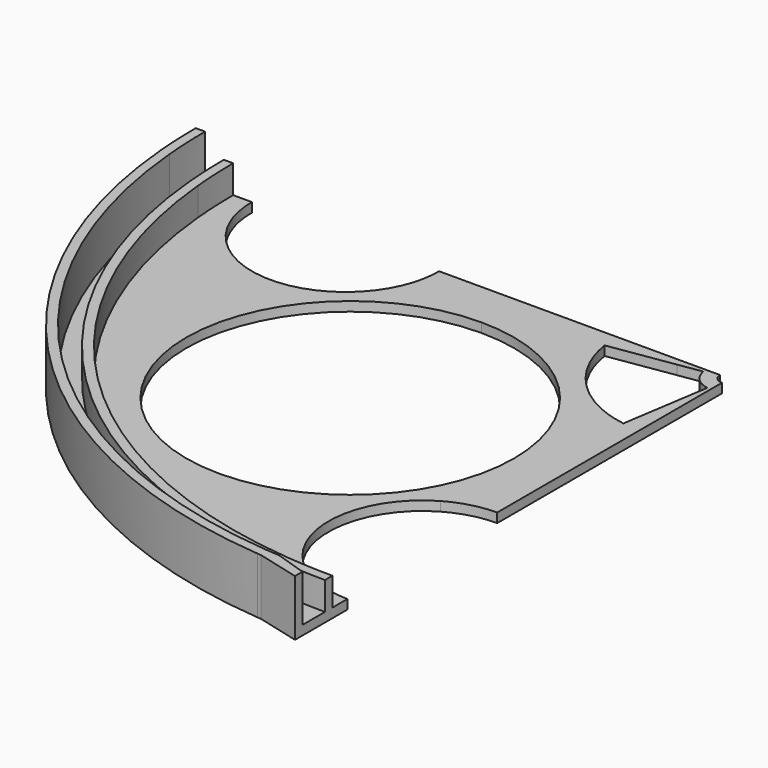
from build123d import *

# Parameters (mm, degrees)
F1_DEPTH = 2.54
F2_DEPTH = 10.16
F3_DEPTH = 2.54
F4_DEPTH = 15.24


with BuildPart() as f1:
    # F0 (on Top) → F1 (new body)
    with BuildSketch(Plane.XY):
        with BuildLine():
            ThreePointArc((-12.7, -134.0196045361), (-6.3570919986, -134.4698173618), (0, -134.62))
            Line((0, -134.62), (0, -129.54))
            ThreePointArc((0, -129.54), (-6.5740037456, -128.6745159877), (-12.7, -126.1370452561))
            Line((-12.7, -126.1370452561), (-12.7, -134.0196045361))
        make_face()
        with BuildLine():
            ThreePointArc((-134.0196045361, -12.7), (-95.1907148833, -95.1907148833), (-12.7, -134.0196045361))
            Line((-12.7, -134.0196045361), (-12.7, -126.1370452561))
            ThreePointArc((-12.7, -126.1370452561), (-25.4, -104.14), (-12.7, -82.1429547439))
            Line((-12.7, -82.1429547439), (-12.7, -57.15))
            ThreePointArc((-12.7, -57.15), (-88.5808964237, -88.5808964237), (-57.15, -12.7))
            Line((-57.15, -12.7), (-82.1429547439, -12.7))
            ThreePointArc((-82.1429547439, -12.7), (-104.14, -25.4), (-126.1370452561, -12.7))
            Line((-126.1370452561, -12.7), (-134.0196045361, -12.7))
        make_face()
        with BuildLine():
            ThreePointArc((-2.510175815, -0.3880945475), (-2.5325329781, -0.1946194105), (-2.54, 0))
            Line((-2.54, 0), (-6.35, 0))
            ThreePointArc((-6.35, 0), (-6.3313324452, -0.4865485263), (-6.2754395375, -0.9702363687))
            Line((-6.2754395375, -0.9702363687), (-2.510175815, -0.3880945475))
        make_face()
        with BuildLine():
            ThreePointArc((-134.62, 0), (-134.4698173618, -6.3570919986), (-134.0196045361, -12.7))
            Line((-134.0196045361, -12.7), (-126.1370452561, -12.7))
            ThreePointArc((-126.1370452561, -12.7), (-128.6745159877, -6.5740037456), (-129.54, 0))
            Line((-129.54, 0), (-134.62, 0))
        make_face()
        with BuildLine():
            ThreePointArc((-57.15, -12.7), (-25.7191035763, -25.7191035763), (-12.7, -57.15))
            Line((-12.7, -57.15), (-12.7, -27.7081287712))
            ThreePointArc((-12.7, -27.7081287712), (-21.5526146906, -21.5526146906), (-27.7081287712, -12.7))
            Line((-27.7081287712, -12.7), (-57.15, -12.7))
        make_face()
        with BuildLine():
            Line((-30.12210978, -4.6571345698), (-82.1429547439, -12.7))
            Line((-82.1429547439, -12.7), (-57.15, -12.7))
            Line((-57.15, -12.7), (-27.7081287712, -12.7))
            ThreePointArc((-27.7081287712, -12.7), (-29.1934246673, -8.7620977053), (-30.12210978, -4.6571345698))
        make_face()
        with BuildLine():
            Line((-12.7, -57.15), (-12.7, -82.1429547439))
            Line((-12.7, -82.1429547439), (-4.6571345698, -30.12210978))
            ThreePointArc((-4.6571345698, -30.12210978), (-8.7620977053, -29.1934246673), (-12.7, -27.7081287712))
            Line((-12.7, -27.7081287712), (-12.7, -57.15))
        make_face()
        with BuildLine():
            ThreePointArc((-12.7, -82.1429547439), (-6.5740037456, -79.6054840123), (0, -78.74))
            Line((0, -78.74), (0, -30.48))
            ThreePointArc((0, -30.48), (-2.3354329262, -30.3903957369), (-4.6571345698, -30.12210978))
            Line((-4.6571345698, -30.12210978), (-12.7, -82.1429547439))
        make_face()
        with BuildLine():
            ThreePointArc((-4.6571345698, -30.12210978), (-2.3354329262, -30.3903957369), (0, -30.48))
            Line((0, -30.48), (0, -12.7))
            Line((0, -12.7), (-1.9635281017, -12.7))
            Line((-1.9635281017, -12.7), (-4.6571345698, -30.12210978))
        make_face()
        with BuildLine():
            Line((-1.9635281017, -12.7), (0, -12.7))
            Line((0, -12.7), (0, -6.35))
            ThreePointArc((0, -6.35), (-0.4865485263, -6.3313324452), (-0.9702363687, -6.2754395375))
            Line((-0.9702363687, -6.2754395375), (-1.9635281017, -12.7))
        make_face()
        with BuildLine():
            ThreePointArc((-0.9702363687, -6.2754395375), (-0.4865485263, -6.3313324452), (0, -6.35))
            Line((0, -6.35), (0, -2.54))
            ThreePointArc((0, -2.54), (-0.1946194105, -2.5325329781), (-0.3880945475, -2.510175815))
            Line((-0.3880945475, -2.510175815), (-0.9702363687, -6.2754395375))
        make_face()
        with BuildLine():
            Line((-0.9702363687, -6.2754395375), (-0.3880945475, -2.510175815))
            ThreePointArc((-0.3880945475, -2.510175815), (-1.7960512242, -1.7960512242), (-2.510175815, -0.3880945475))
            Line((-2.510175815, -0.3880945475), (-6.2754395375, -0.9702363687))
            ThreePointArc((-6.2754395375, -0.9702363687), (-4.4901280605, -4.4901280605), (-0.9702363687, -6.2754395375))
        make_face()
        with BuildLine():
            ThreePointArc((-30.48, 0), (-30.3903957369, -2.3354329262), (-30.12210978, -4.6571345698))
            Line((-30.12210978, -4.6571345698), (-12.7, -1.9635281017))
            Line((-12.7, -1.9635281017), (-12.7, 0))
            Line((-12.7, 0), (-30.48, 0))
        make_face()
        with BuildLine():
            Line((-12.7, 0), (-12.7, -1.9635281017))
            Line((-12.7, -1.9635281017), (-6.2754395375, -0.9702363687))
            ThreePointArc((-6.2754395375, -0.9702363687), (-6.3313324452, -0.4865485263), (-6.35, 0))
            Line((-6.35, 0), (-12.7, 0))
        make_face()
        with BuildLine():
            ThreePointArc((-78.74, 0), (-79.6054840123, -6.5740037456), (-82.1429547439, -12.7))
            Line((-82.1429547439, -12.7), (-30.12210978, -4.6571345698))
            ThreePointArc((-30.12210978, -4.6571345698), (-30.3903957369, -2.3354329262), (-30.48, 0))
            Line((-30.48, 0), (-78.74, 0))
        make_face()
    extrude(amount=F1_DEPTH)

    # F0 (on Top) → F2 (join)
    with BuildSketch(Plane.XY):
        with BuildLine():
            Line((0, -137.16), (0, -134.62))
            ThreePointArc((0, -134.62), (-6.3570919986, -134.4698173618), (-12.7, -134.0196045361))
            Line((-12.7, -134.0196045361), (-12.7, -136.5707713971))
            ThreePointArc((-12.7, -136.5707713971), (-6.3568307817, -137.0126136617), (0, -137.16))
        make_face()
        with BuildLine():
            Line((-12.7, -136.5707713971), (-12.7, -134.0196045361))
            ThreePointArc((-12.7, -134.0196045361), (-95.1907148833, -95.1907148833), (-134.0196045361, -12.7))
            Line((-134.0196045361, -12.7), (-136.5707713971, -12.7))
            ThreePointArc((-136.5707713971, -12.7), (-96.9867661075, -96.9867661075), (-12.7, -136.5707713971))
        make_face()
        with BuildLine():
            Line((-136.5707713971, -12.7), (-134.0196045361, -12.7))
            ThreePointArc((-134.0196045361, -12.7), (-134.4698173618, -6.3570919986), (-134.62, 0))
            Line((-134.62, 0), (-137.16, 0))
            ThreePointArc((-137.16, 0), (-137.0126136617, -6.3568307817), (-136.5707713971, -12.7))
        make_face()
    extrude(amount=F2_DEPTH)

    # F0 (on Top) → F3 (join)
    with BuildSketch(Plane.XY):
        with BuildLine():
            Line((0, -142.24), (0, -137.16))
            ThreePointArc((0, -137.16), (-6.3568307817, -137.0126136617), (-12.7, -136.5707713971))
            Line((-12.7, -136.5707713971), (-12.7, -141.6719012366))
            ThreePointArc((-12.7, -141.6719012366), (-10.6556073906, -141.8403173683), (-8.6089986235, -141.979233491))
            ThreePointArc((-8.6089986235, -141.979233491), (-4.306473513, -142.1747934265), (0, -142.24))
        make_face()
        with BuildLine():
            Line((0, -144.78), (0, -142.24))
            ThreePointArc((0, -142.24), (-4.306473513, -142.1747934265), (-8.6089986235, -141.979233491))
            Line((-8.6089986235, -141.979233491), (0, -144.78))
        make_face()
        with BuildLine():
            Line((-12.7, -141.6719012366), (-12.7, -136.5707713971))
            ThreePointArc((-12.7, -136.5707713971), (-96.9867661075, -96.9867661075), (-136.5707713971, -12.7))
            Line((-136.5707713971, -12.7), (-141.6719012366, -12.7))
            ThreePointArc((-141.6719012366, -12.7), (-100.578868556, -100.578868556), (-12.7, -141.6719012366))
        make_face()
        with BuildLine():
            Line((-141.6719012366, -12.7), (-136.5707713971, -12.7))
            ThreePointArc((-136.5707713971, -12.7), (-137.0126136617, -6.3568307817), (-137.16, 0))
            Line((-137.16, 0), (-142.24, 0))
            ThreePointArc((-142.24, 0), (-142.0979043334, -6.3563499), (-141.6719012366, -12.7))
        make_face()
    extrude(amount=F3_DEPTH)

    # F0 (on Top) → F4 (join)
    with BuildSketch(Plane.XY):
        with BuildLine():
            ThreePointArc((-8.6089986235, -141.979233491), (-10.6556073906, -141.8403173683), (-12.7, -141.6719012366))
            Line((-12.7, -141.6719012366), (-12.7, -144.2219067964))
            ThreePointArc((-12.7, -144.2219067964), (-12.1332804652, -144.2706896953), (-11.5663736451, -144.3172456801))
            ThreePointArc((-11.5663736451, -144.3172456801), (-5.787813509, -144.6642651617), (0, -144.78))
            Line((0, -144.78), (-8.6089986235, -141.979233491))
        make_face()
        with BuildLine():
            Line((0, -147.32), (0, -144.78))
            ThreePointArc((0, -144.78), (-5.787813509, -144.6642651617), (-11.5663736451, -144.3172456801))
            Line((-11.5663736451, -144.3172456801), (0, -147.32))
        make_face()
        with BuildLine():
            Line((-12.7, -144.2219067964), (-12.7, -141.6719012366))
            ThreePointArc((-12.7, -141.6719012366), (-100.578868556, -100.578868556), (-141.6719012366, -12.7))
            Line((-141.6719012366, -12.7), (-144.2219067964, -12.7))
            ThreePointArc((-144.2219067964, -12.7), (-102.3749197802, -102.3749197802), (-12.7, -144.2219067964))
        make_face()
        with BuildLine():
            Line((-144.2219067964, -12.7), (-141.6719012366, -12.7))
            ThreePointArc((-141.6719012366, -12.7), (-142.0979043334, -6.3563499), (-142.24, 0))
            Line((-142.24, 0), (-144.78, 0))
            ThreePointArc((-144.78, 0), (-144.6404094055, -6.3561283031), (-144.2219067964, -12.7))
        make_face()
    extrude(amount=F4_DEPTH)


solid = f1.part
